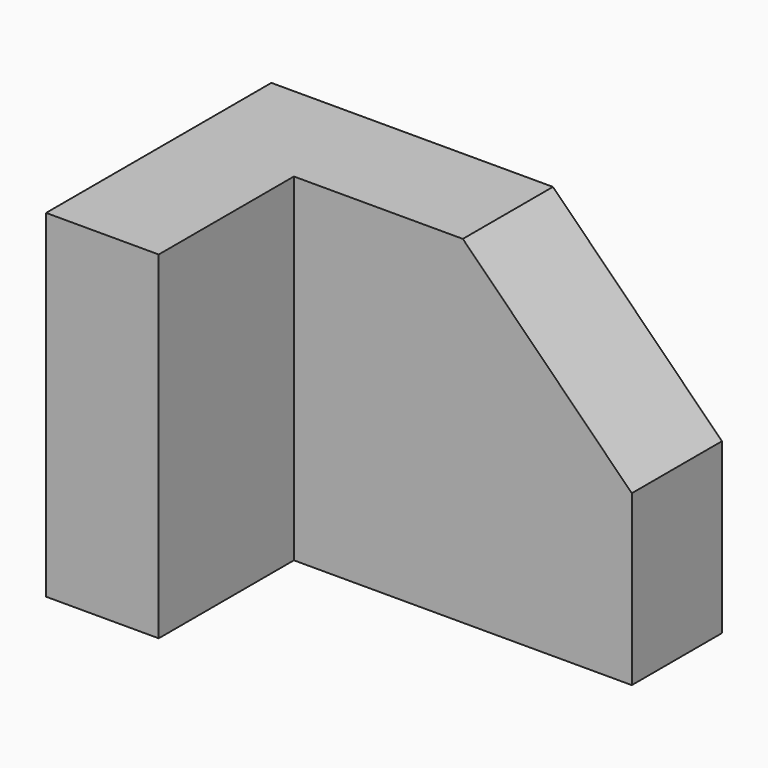
from build123d import *

# Parameters (mm, degrees)
F1_DEPTH = 20
F2_W     = 20
F2_H     = 60
F3_DEPTH = 30


with BuildPart() as f1:
    # F0 (on Front) → F1 (new body)
    with BuildSketch(Plane.XZ):
        Polygon((-40, 30), (-40, -30), (40, -30), (40, 0), (10, 30), align=None)
    extrude(amount=F1_DEPTH)

    # F2 (on face) → F3 (join)
    with BuildSketch(Plane.XZ.offset(20)):
        with Locations((-30, 0)):
            Rectangle(F2_W, F2_H)
    extrude(amount=F3_DEPTH)


solid = f1.part
